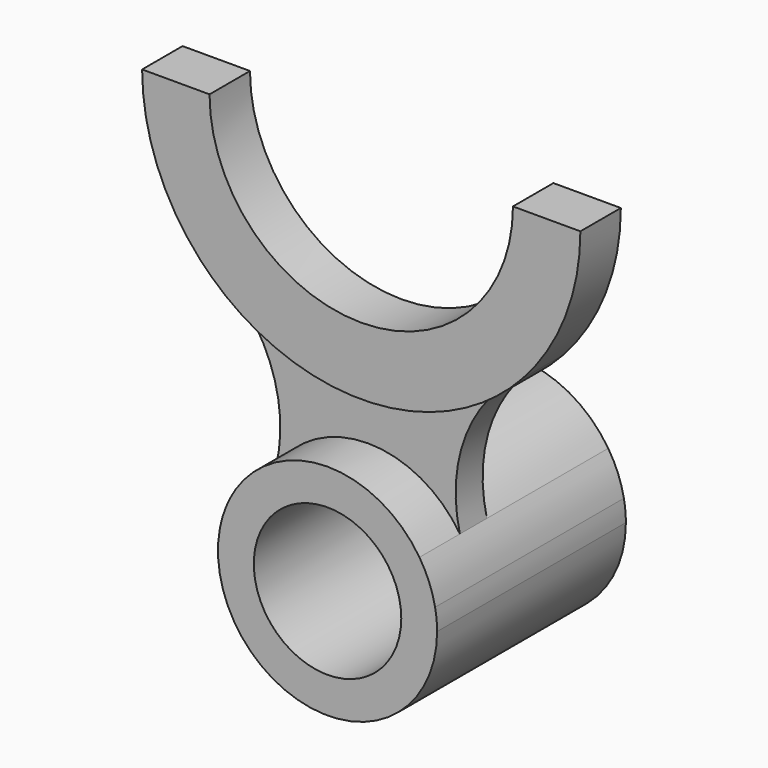
from build123d import *

# Parameters (mm, degrees)
F0_R     = 8.75
F1_DEPTH = 28
F3_DEPTH = 5
F5_DEPTH = 17
F7_DEPTH = 1
F9_DEPTH = 1


with BuildPart() as f1:
    # F0 (on Front) → F1 (new body)
    with BuildSketch(Plane.XZ):
        with BuildLine():
            ThreePointArc((-12.76405, 2.465566), (-1.238415, -12.940878), (13, 0))
            ThreePointArc((13, 0), (12.940878, 1.238415), (12.76405, 2.465566))
            ThreePointArc((12.76405, 2.465566), (11.670877, 4.703728), (10.906538, 7.07442))
            ThreePointArc((10.906538, 7.07442), (0, 13), (-10.906538, 7.07442))
            ThreePointArc((-10.906538, 7.07442), (-11.670877, 4.703728), (-12.76405, 2.465566))
        make_face()
        Circle(F0_R, mode=Mode.SUBTRACT)
        with BuildLine():
            ThreePointArc((10.906538, 7.07442), (11.670877, 4.703728), (12.76405, 2.465566))
            ThreePointArc((12.76405, 2.465566), (12.057553, 4.85957), (10.906538, 7.07442))
        make_face()
        with BuildLine():
            ThreePointArc((-10.906538, 7.07442), (-12.057553, 4.85957), (-12.76405, 2.465566))
            ThreePointArc((-12.76405, 2.465566), (-11.670877, 4.703728), (-10.906538, 7.07442))
        make_face()
        with BuildLine():
            ThreePointArc((-10.906538, 7.07442), (0, 13), (10.906538, 7.07442))
            ThreePointArc((10.906538, 7.07442), (10.832753, 15.103442), (14.352365, 22.320295))
            ThreePointArc((14.352365, 22.320295), (0, 18), (-14.352365, 22.320295))
            ThreePointArc((-14.352365, 22.320295), (-10.832753, 15.103442), (-10.906538, 7.07442))
        make_face()
        with BuildLine():
            ThreePointArc((-14.352365, 22.320295), (0, 18), (14.352365, 22.320295))
            ThreePointArc((14.352365, 22.320295), (16.553993, 24.567178), (19.122307, 26.383605))
            ThreePointArc((19.122307, 26.383605), (24.21962, 34.544313), (26, 44))
            Line((26, 44), (18, 44))
            ThreePointArc((18, 44), (0, 26), (-18, 44))
            Line((-18, 44), (-26, 44))
            ThreePointArc((-26, 44), (-24.21962, 34.544313), (-19.122307, 26.383605))
            ThreePointArc((-19.122307, 26.383605), (-16.553993, 24.567178), (-14.352365, 22.320295))
        make_face()
        with BuildLine():
            ThreePointArc((19.122307, 26.383605), (16.553993, 24.567178), (14.352365, 22.320295))
            ThreePointArc((14.352365, 22.320295), (16.860191, 24.20773), (19.122307, 26.383605))
        make_face()
        with BuildLine():
            ThreePointArc((-19.122307, 26.383605), (-16.860191, 24.20773), (-14.352365, 22.320295))
            ThreePointArc((-14.352365, 22.320295), (-16.553993, 24.567178), (-19.122307, 26.383605))
        make_face()
    extrude(amount=F1_DEPTH)

    # F2 (on face) → F3 (cut)
    with BuildSketch(Plane.XZ.offset(28)):
        with BuildLine():
            Line((-18, 44), (-26, 44))
            ThreePointArc((-26, 44), (-22.903728, 31.694747), (-14.352365, 22.320295))
            ThreePointArc((-14.352365, 22.320295), (-10.832753, 15.103442), (-10.906538, 7.07442))
            ThreePointArc((-10.906538, 7.07442), (0, 13), (10.906538, 7.07442))
            ThreePointArc((10.906538, 7.07442), (10.832753, 15.103442), (14.352365, 22.320295))
            ThreePointArc((14.352365, 22.320295), (22.903728, 31.694747), (26, 44))
            Line((26, 44), (18, 44))
            ThreePointArc((18, 44), (0, 26), (-18, 44))
        make_face()
    extrude(amount=-F3_DEPTH, mode=Mode.SUBTRACT)

    # F4 (on face) → F5 (cut)
    with BuildSketch(Plane(origin=(0, 0, 0), x_dir=(-1, 0, 0), z_dir=(0, 1, 0))):
        with BuildLine():
            Line((-18, 44), (-26, 44))
            ThreePointArc((-26, 44), (-22.903728, 31.694747), (-14.352365, 22.320295))
            ThreePointArc((-14.352365, 22.320295), (-10.832753, 15.103442), (-10.906538, 7.07442))
            ThreePointArc((-10.906538, 7.07442), (0, 13), (10.906538, 7.07442))
            ThreePointArc((10.906538, 7.07442), (10.832753, 15.103442), (14.352365, 22.320295))
            ThreePointArc((14.352365, 22.320295), (22.903728, 31.694747), (26, 44))
            Line((26, 44), (18, 44))
            ThreePointArc((18, 44), (0, 26), (-18, 44))
        make_face()
    extrude(amount=-F5_DEPTH, mode=Mode.SUBTRACT)

    # F6 (on face) → F7 (cut)
    with BuildSketch(Plane(origin=(0, -17, 0), x_dir=(-1, 0, 0), z_dir=(0, 1, 0))):
        with BuildLine():
            ThreePointArc((14.352365, 22.320295), (0, 18), (-14.352365, 22.320295))
            ThreePointArc((-14.352365, 22.320295), (-10.832753, 15.103442), (-10.906538, 7.07442))
            ThreePointArc((-10.906538, 7.07442), (0, 13), (10.906538, 7.07442))
            ThreePointArc((10.906538, 7.07442), (10.832753, 15.103442), (14.352365, 22.320295))
        make_face()
    extrude(amount=-F7_DEPTH, mode=Mode.SUBTRACT)

    # F8 (on face) → F9 (cut)
    with BuildSketch(Plane.XZ.offset(23)):
        with BuildLine():
            ThreePointArc((14.352365, 22.320295), (0, 18), (-14.352365, 22.320295))
            ThreePointArc((-14.352365, 22.320295), (-10.832753, 15.103442), (-10.906538, 7.07442))
            ThreePointArc((-10.906538, 7.07442), (0, 13), (10.906538, 7.07442))
            ThreePointArc((10.906538, 7.07442), (10.832753, 15.103442), (14.352365, 22.320295))
        make_face()
    extrude(amount=-F9_DEPTH, mode=Mode.SUBTRACT)


solid = f1.part
